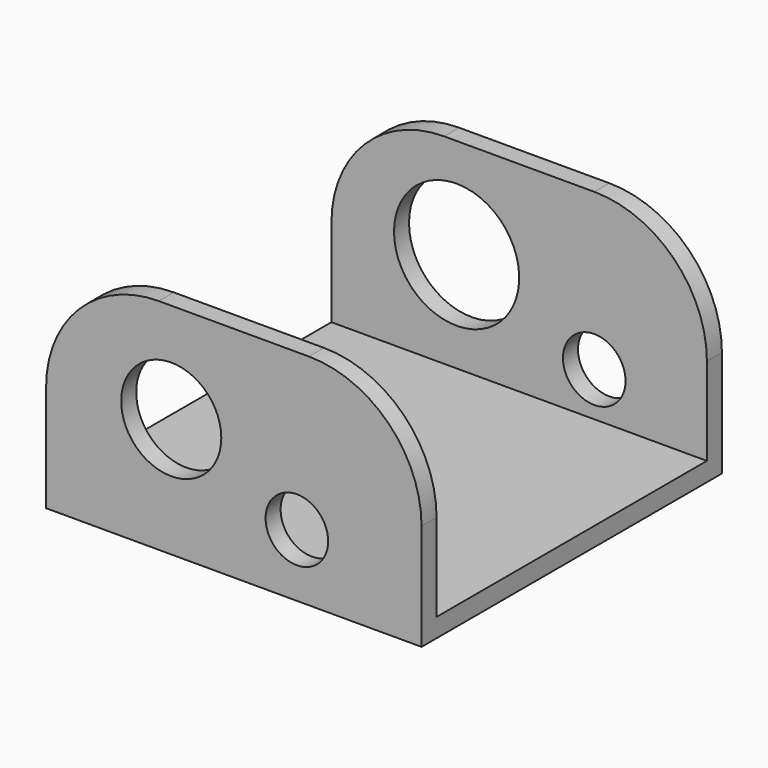
from build123d import *

# Parameters (mm, degrees)
F0_W     = 30
F0_H     = 30
F1_DEPTH = 1.5
F2_W     = 30
F2_H     = 1.5
F3_DEPTH = 16
F4_W     = 30
F4_H     = 1.5
F5_DEPTH = 16
F6_R     = 4
F6_R_2   = 2.5
F7_DEPTH = 25
F8_R     = 5
F8_R_2   = 2.5
F9_DEPTH = 25
F10_R    = 9


with BuildPart() as f1:
    # F0 (on Top) → F1 (new body)
    with BuildSketch(Plane.XY):
        Rectangle(F0_W, F0_H)
    extrude(amount=F1_DEPTH)

    # F2 (on face) → F3 (join)
    with BuildSketch(Plane.XY.offset(1.5)):
        with Locations((0, 14.25)):
            Rectangle(F2_W, F2_H)
    extrude(amount=F3_DEPTH)

    # F4 (on face) → F5 (join)
    with BuildSketch(Plane.XY.offset(1.5)):
        with Locations((0, -14.25)):
            Rectangle(F4_W, F4_H)
    extrude(amount=F5_DEPTH)

    # F6 (on face) → F7 (cut)
    with BuildSketch(Plane.XZ.offset(15)):
        with Locations((-5, 9.5)):
            Circle(F6_R)
        with Locations((5.03743, 5)):
            Circle(F6_R_2)
    extrude(amount=-F7_DEPTH, mode=Mode.SUBTRACT)

    # F8 (on face) → F9 (cut)
    with BuildSketch(Plane(origin=(0, 15, 0), x_dir=(-1, 0, 0), z_dir=(0, 1, 0))):
        with Locations((5, 9.5)):
            Circle(F8_R)
        with Locations((-6, 5)):
            Circle(F8_R_2)
    extrude(amount=-F9_DEPTH, mode=Mode.SUBTRACT)

    # F10
    f10_edges = [f1.edges().sort_by_distance(p)[0] for p in [
        (15, 14.25, 17.5),
        (15, -14.25, 17.5),
        (-15, -14.25, 17.5),
        (-15, 14.25, 17.5),
    ]]
    fillet(f10_edges, radius=F10_R)


solid = f1.part
